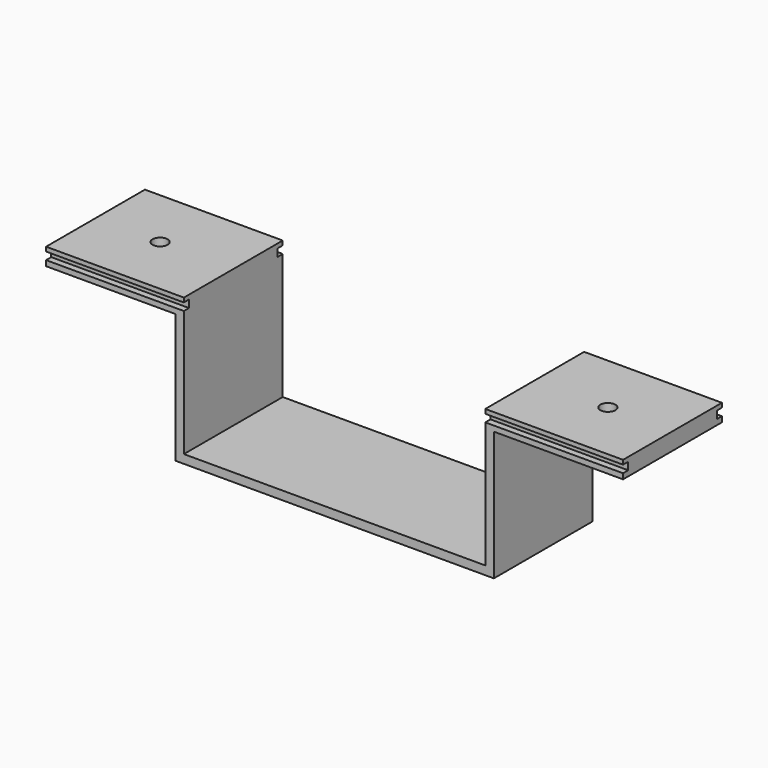
from build123d import *

# Parameters (mm, degrees)
PAD_DEPTH       = 28.7
SKETCH001_R     = 1.75
POCKET_DEPTH    = 4.001
SKETCH002_W     = 1.75
SKETCH002_H     = 1.5
POCKET001_DEPTH = 134.001


with BuildPart() as part:
    # Sketch → Pad (new body)
    with BuildSketch(Plane.XZ):
        Polygon((-67, 0), (-35, 0), (-35, -32), (35, -32), (35, 0), (67, 0), (67, -4), (37, -4), (37, -34), (-37, -34), (-37, -4), (-67, -4), align=None)
    extrude(amount=PAD_DEPTH)

    # Sketch001 (on Face7 of Pad) → Pocket (cut, through all)
    with BuildSketch(Plane(origin=(0, 0, -4), x_dir=(1, 0, 0), z_dir=(0, 0, -1))):
        with Locations((-52, 14.35)):
            Circle(SKETCH001_R)
        with Locations((52, 14.35)):
            Circle(SKETCH001_R)
    extrude(amount=-POCKET_DEPTH, mode=Mode.SUBTRACT)

    # Sketch002 (on Face11 of Pocket) → Pocket001 (cut, through all)
    with BuildSketch(Plane(origin=(67, 0, 0), x_dir=(0, 0, 1), z_dir=(1, 0, 0))):
        with Locations((-1.875, 27.95)):
            Rectangle(SKETCH002_W, SKETCH002_H)
        with Locations((-1.875, 0.75)):
            Rectangle(SKETCH002_W, SKETCH002_H)
    extrude(amount=-POCKET001_DEPTH, mode=Mode.SUBTRACT)


solid = part.part
